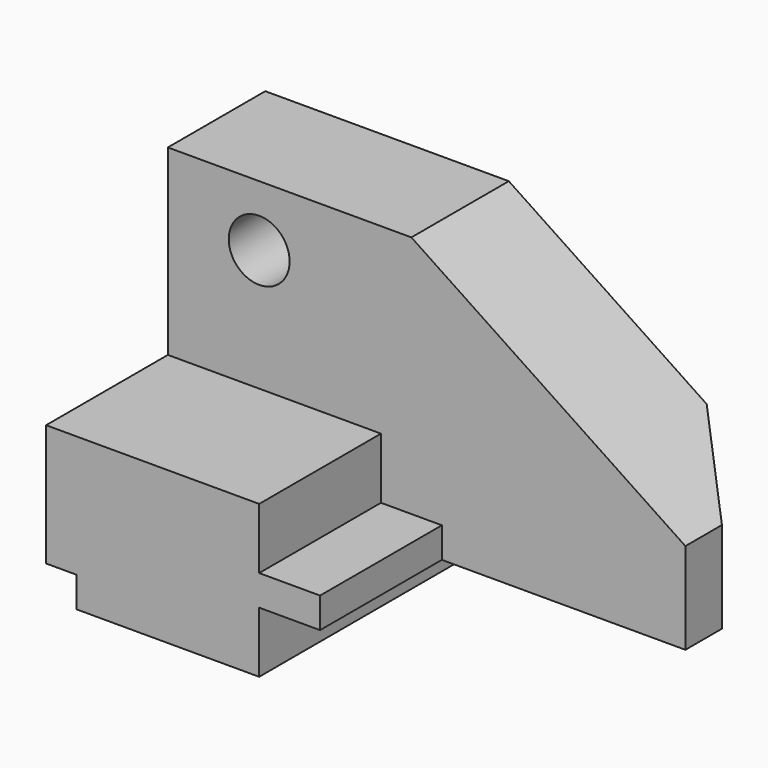
from build123d import *

# Parameters (mm, degrees)
F1_DEPTH      = 25.4
F3_DEPTH      = 25.4
F3_DEPTH_BACK = 31.75
F4_DEPTH      = 31.75
F5_R          = 6.35
F6_DEPTH      = 25.401
F8_DEPTH      = 57.151


with BuildPart() as f1:
    # F0 (on Front) → F1 (new body)
    with BuildSketch(Plane.XZ):
        Polygon((0, 57.15), (0, 0), (107.95, 0), (107.95, 19.05), (50.8, 57.15), align=None)
    extrude(amount=F1_DEPTH)

    # F2 (on face) → F3 (join, two sides)
    with BuildSketch(Plane.XZ.offset(25.4)) as f3_sk:
        Polygon((44.45, 0), (0, 0), (0, -6.35), (6.35, -6.35), (6.35, -12.7), (44.45, -12.7), align=None)
    extrude(amount=-F3_DEPTH)
    extrude(f3_sk.sketch, amount=F3_DEPTH_BACK)

    # F2 (on face) → F4 (join)
    with BuildSketch(Plane.XZ.offset(25.4)):
        Polygon((0, 19.05), (0, 0), (44.45, 0), (57.15, 0), (57.15, 6.35), (44.45, 6.35), (44.45, 19.05), align=None)
    extrude(amount=F4_DEPTH)

    # F5 (on face) → F6 (cut, through all)
    with BuildSketch(Plane.XZ.offset(25.4)):
        with Locations((19.05, 44.45)):
            Circle(F5_R)
    extrude(amount=-F6_DEPTH, mode=Mode.SUBTRACT)

    # F7 (on face) → F8 (cut, through all)
    with BuildSketch(Plane(origin=(0, 0, 0), x_dir=(1, 0, 0), z_dir=(0, 0, -1))):
        Polygon((107.95, 0), (107.95, 15.875), (92.075, 0), align=None)
    extrude(amount=-F8_DEPTH, mode=Mode.SUBTRACT)


solid = f1.part
